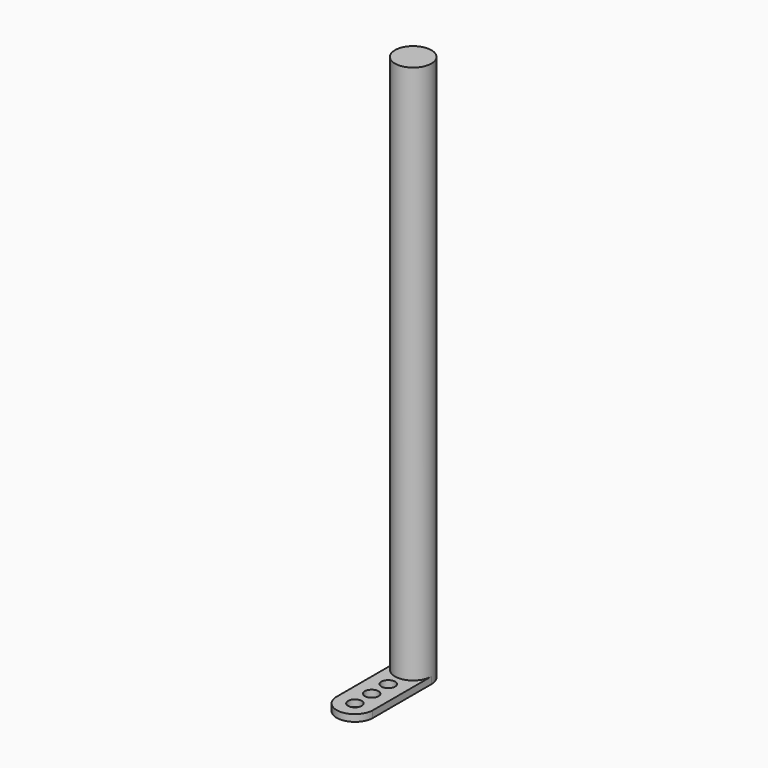
from build123d import *

# Parameters (mm, degrees)
F0_R     = 4
F1_DEPTH = 120
F2_R     = 1.5
F3_DEPTH = 1.5


with BuildPart() as f1:
    # F0 (on Top) → F1 (new body)
    with BuildSketch(Plane.XY):
        Circle(F0_R)
    extrude(amount=F1_DEPTH)


with BuildPart() as f3:
    # F2 (on face) → F3 (new body)
    with BuildSketch(Plane(origin=(0, 0, 0), x_dir=(1, 0, 0), z_dir=(0, 0, -1))):
        with BuildLine():
            Line((-4, 16.234326), (-4, 0))
            ThreePointArc((-4, 0), (0, 4), (4, 0))
            Line((4, 0), (4, 16.168817))
            ThreePointArc((4, 16.168817), (0.031103, 19.999866), (-4, 16.234326))
        make_face()
        with Locations((0, 6.837347)):
            Circle(F2_R, mode=Mode.SUBTRACT)
        with Locations((-0.001696, 15.99451)):
            Circle(F2_R, mode=Mode.SUBTRACT)
        with Locations((0, 11.384373)):
            Circle(F2_R, mode=Mode.SUBTRACT)
    extrude(amount=-F3_DEPTH)


solid = Compound([f1.part, f3.part])
